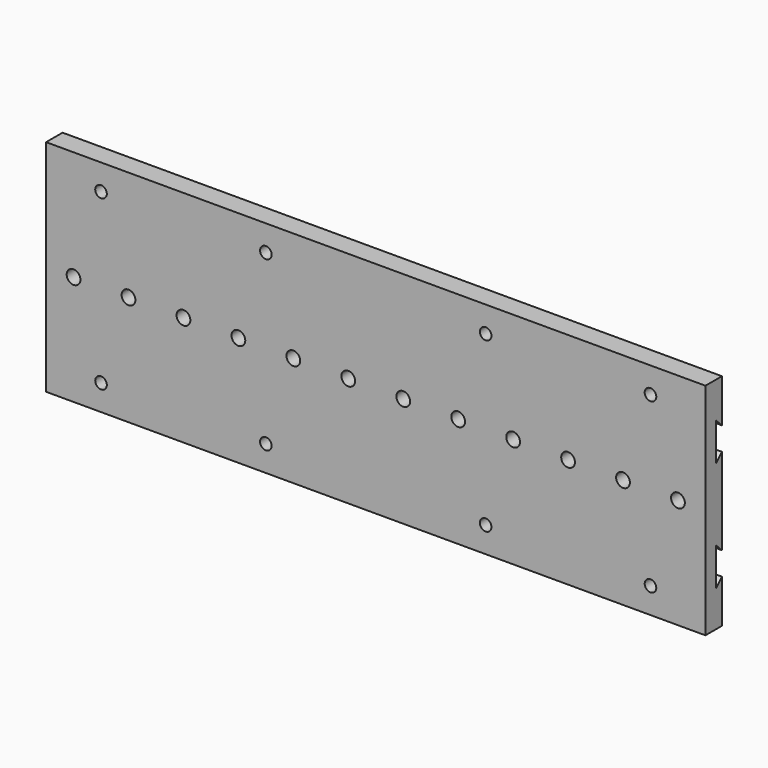
from build123d import *

# Parameters (mm, degrees)
F1_DEPTH       = 609.6
F3_D           = 10.71626
F6_D           = 12.7254
F6_CBORE_D     = 15.875
F6_CBORE_DEPTH = 2.54


with BuildPart() as f1:
    # F0 (on Right) → F1 (new body)
    with BuildSketch(Plane.YZ):
        Polygon((-32.1863732547, 224.0715666294), (-51.2363732547, 224.0715666294), (-51.2363732547, 20.8715666294), (-32.1863732547, 20.8715666294), (-32.1863732547, 60.9400666294), (-38.9173732547, 54.2090666294), (-38.9173732547, 62.1465666294), (-39.1713732547, 62.1465666294), (-39.1713732547, 81.1965666294), (-38.9173732547, 81.1965666294), (-38.9173732547, 89.1467666294), (-32.1863732547, 82.4157666294), (-32.1863732547, 162.5400666294), (-38.9173732547, 155.8090666294), (-38.9173732547, 163.7465666294), (-39.1713732547, 163.7465666294), (-39.1713732547, 182.7965666294), (-38.9173732547, 182.7965666294), (-38.9173732547, 190.7467666294), (-32.1863732547, 184.0157666294), align=None)
    extrude(amount=F1_DEPTH)

    # F3 (through all)
    with Locations(Plane.XZ.offset(51.2363732547)):
        with Locations((50.8, 200.2717666294), (203.2, 200.2717666294), (406.4, 200.2717666294), (558.8, 200.2717666294), (558.8, 44.6713666294), (406.4, 44.6713666294), (203.2, 44.6713666294), (50.8, 44.6713666294)):
            Hole(F3_D / 2)

    # F6 (through all)
    with Locations(Plane(origin=(0, -32.1863732547, 0), x_dir=(-1, 0, 0), z_dir=(0, 1, 0))):
        with Locations((-584.2, 122.4779166294), (-533.4, 122.4779166294), (-482.6, 122.4779166294), (-381, 122.4779166294), (-330.2, 122.4779166294), (-279.4, 122.4779166294), (-228.6, 122.4779166294), (-177.8, 122.4779166294), (-127, 122.4779166294), (-76.2, 122.4779166294), (-431.8, 122.4779166294), (-25.4, 122.4779166294)):
            CounterBoreHole(F6_D / 2, F6_CBORE_D / 2, F6_CBORE_DEPTH)


solid = f1.part
